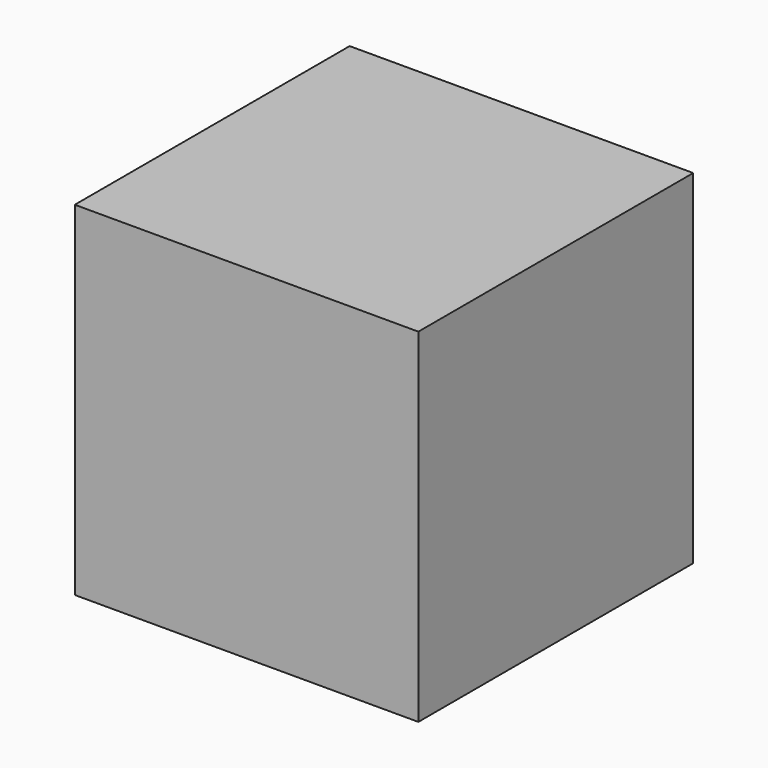
from build123d import *

# Parameters (mm, degrees)
F0_W     = 12.7
F0_H     = 12.7
F0_W_2   = 7.62
F0_H_2   = 7.62
F0_W_3   = 6.35
F0_H_3   = 6.35
F1_DEPTH = 12.7
F2_DEPTH = 7.62
F3_DEPTH = 7.62
F4_DEPTH = 5.08


with BuildPart() as f1:
    # F0 (on Front) → F1 (new body)
    with BuildSketch(Plane.XZ):
        Rectangle(F0_W, F0_H)
        Rectangle(F0_W_2, F0_H_2, mode=Mode.SUBTRACT)
        Rectangle(F0_W_2, F0_H_2)
        Rectangle(F0_W_3, F0_H_3, mode=Mode.SUBTRACT)
        Rectangle(F0_W_3, F0_H_3)
    extrude(amount=F1_DEPTH)

    # F0 (on Front) → F2 (cut)
    with BuildSketch(Plane.XZ):
        Rectangle(F0_W_3, F0_H_3)
    extrude(amount=F2_DEPTH, mode=Mode.SUBTRACT)

    # F0 (on Front) → F3 (cut)
    with BuildSketch(Plane.XZ):
        Rectangle(F0_W_2, F0_H_2)
        Rectangle(F0_W_3, F0_H_3, mode=Mode.SUBTRACT)
    extrude(amount=F3_DEPTH, mode=Mode.SUBTRACT)

    # F0 (on Front) → F4 (join)
    with BuildSketch(Plane.XZ):
        Rectangle(F0_W_2, F0_H_2)
        Rectangle(F0_W_3, F0_H_3, mode=Mode.SUBTRACT)
    extrude(amount=F4_DEPTH)


solid = f1.part
